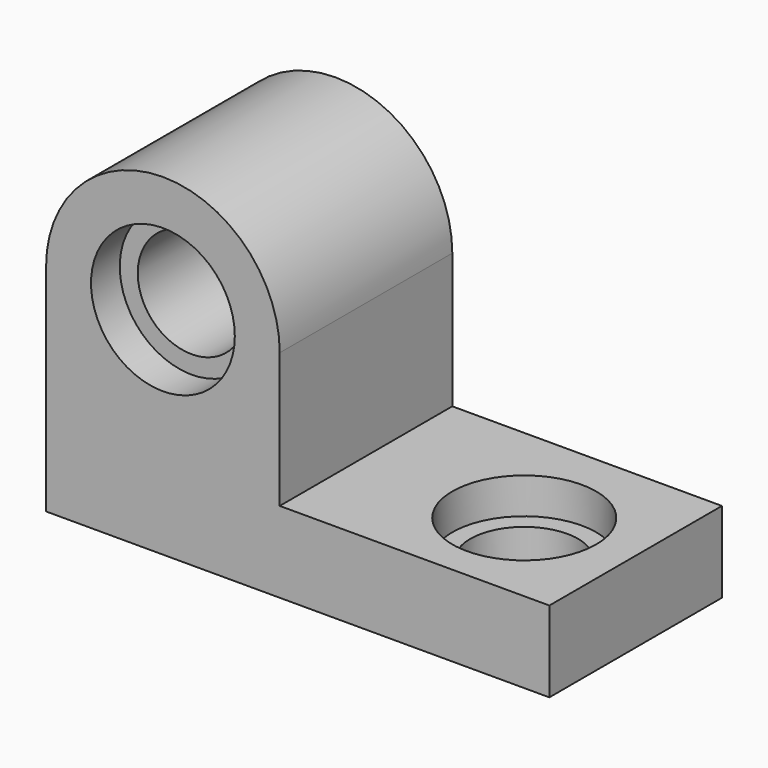
from build123d import *

# Parameters (mm, degrees)
F1_DEPTH       = 76.2
F4_D           = 38.1
F4_CBORE_D     = 50.8
F4_CBORE_DEPTH = 12.7
F5_D           = 38.1
F5_CBORE_D     = 50.8
F5_CBORE_DEPTH = 12.7


with BuildPart() as f1:
    # F0 (on Front) → F1 (new body)
    with BuildSketch(Plane.XZ):
        with BuildLine():
            Line((118.284614, 20.663555), (23.034614, 20.663555))
            Line((23.034614, 20.663555), (23.034614, 68.288555))
            ThreePointArc((23.034614, 68.288555), (-18.240386, 27.013555), (-59.515386, 68.288555))
            Line((-59.515386, 68.288555), (-59.515386, 20.663555))
            Line((-59.515386, 20.663555), (-59.515386, -7.911445))
            Line((-59.515386, -7.911445), (118.284614, -7.911445))
            Line((118.284614, -7.911445), (118.284614, 20.663555))
        make_face()
        with BuildLine():
            ThreePointArc((-59.515386, 68.288555), (-18.240386, 27.013555), (23.034614, 68.288555))
            ThreePointArc((23.034614, 68.288555), (-18.240386, 109.563555), (-59.515386, 68.288555))
        make_face()
    extrude(amount=F1_DEPTH)

    # F4 (through all)
    with Locations(Plane.XZ.offset(76.2)):
        with Locations((-18.240386, 68.288555)):
            CounterBoreHole(F4_D / 2, F4_CBORE_D / 2, F4_CBORE_DEPTH)

    # F5 (through all)
    with Locations(Plane.XY.offset(20.663555)):
        with Locations((80.184614, -39.662078)):
            CounterBoreHole(F5_D / 2, F5_CBORE_D / 2, F5_CBORE_DEPTH)


solid = f1.part
